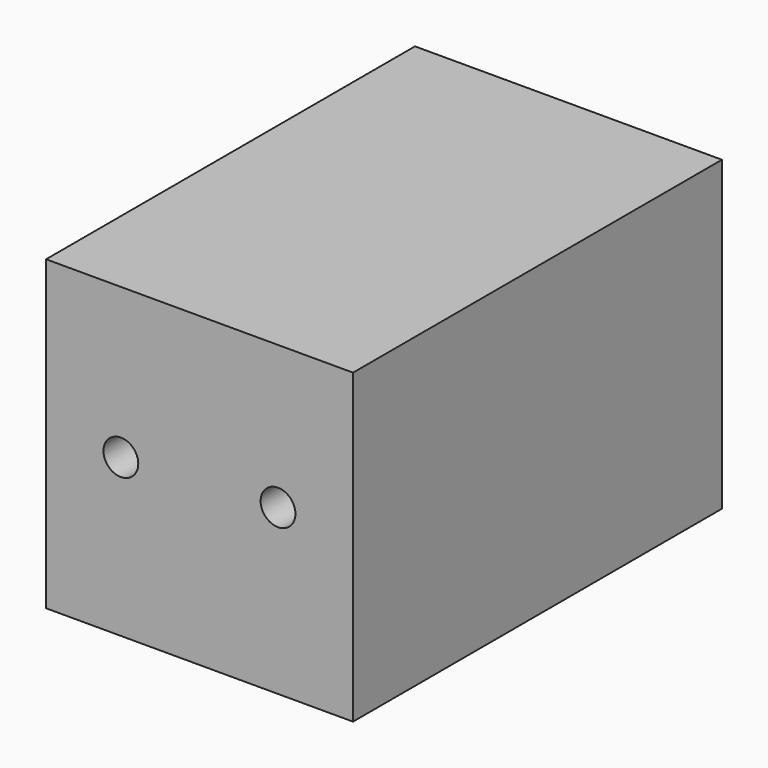
from build123d import *

# Parameters (mm, degrees)
F0_W     = 101.4476
F0_H     = 101.5520170331
F1_DEPTH = 152.4
F5_D     = 11.50874
F6_D     = 13.1064
F6_DEPTH = 101.6
F6_TIP   = 3.9375598086
F7_D     = 6.5278
F7_DEPTH = 101.6
F7_TIP   = 1.9611489744


with BuildPart() as f1:
    # F0 (on Front) → F1 (new body)
    with BuildSketch(Plane.XZ):
        with Locations((50.7238, -50.7760085166)):
            Rectangle(F0_W, F0_H)
    extrude(amount=F1_DEPTH)

    # F5 (through all)
    with Locations(Plane(origin=(0, 0, 0), x_dir=(-1, 0, 0), z_dir=(0, 1, 0))):
        with Locations((-76.6532495618, -47.2862608731), (-24.7153807431, -49.5884530246)):
            Hole(F5_D / 2)

    # F6
    with Locations(Plane(origin=(0, 0, 0), x_dir=(-1, 0, 0), z_dir=(0, 1, 0))):
        with Locations((-51.1274710298, -21.4095711708)):
            Hole(F6_D / 2, depth=F6_DEPTH)
            with Locations((0, 0, -(F6_DEPTH + F6_TIP / 2))):  # 118° drill point
                Cone(0, F6_D / 2, F6_TIP, mode=Mode.SUBTRACT)

    # F7
    with Locations(Plane(origin=(0, 0, 0), x_dir=(-1, 0, 0), z_dir=(0, 1, 0))):
        with Locations((-50.2411611378, -75.4651352763)):
            Hole(F7_D / 2, depth=F7_DEPTH)
            with Locations((0, 0, -(F7_DEPTH + F7_TIP / 2))):  # 118° drill point
                Cone(0, F7_D / 2, F7_TIP, mode=Mode.SUBTRACT)


solid = f1.part
